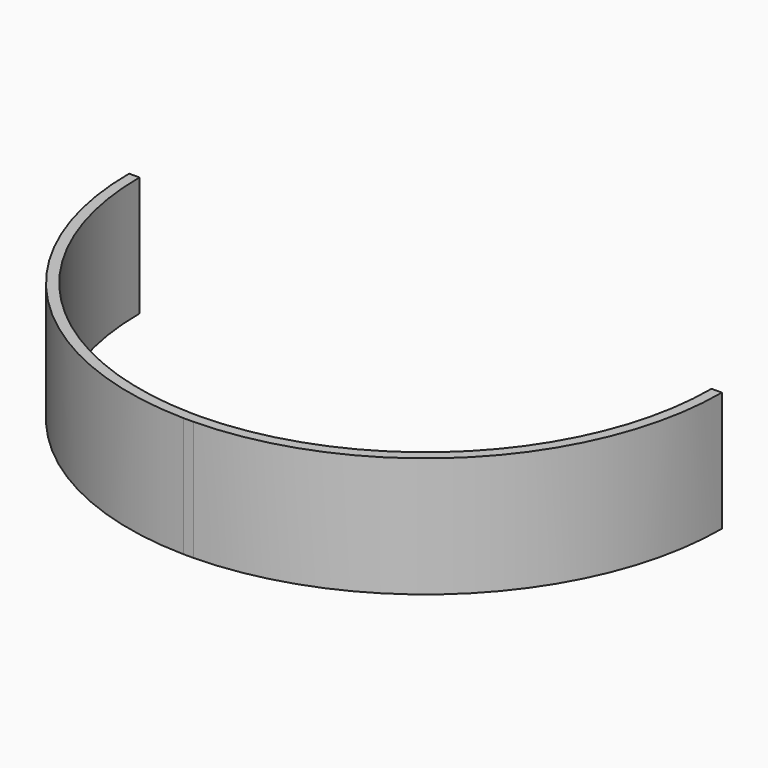
from build123d import *

# Parameters (mm, degrees)
F0_W     = 3.12686
F0_H     = 3.290719
F1_DEPTH = 38.1


with BuildPart() as f1:
    # F0 (on Top) → F1 (new body)
    with BuildSketch(Plane.XY):
        with BuildLine():
            Line((-90.932, 0), (-94.22225, 0))
            ThreePointArc((-94.22225, 0), (-67.175674, -66.070124), (-1.56343, -94.209278))
            Line((-1.56343, -94.209278), (-1.56343, -90.918559))
            ThreePointArc((-1.56343, -90.918559), (-64.849034, -63.743481), (-90.932, 0))
        make_face()
        with Locations((0, -92.563918)):
            Rectangle(F0_W, F0_H)
        with BuildLine():
            Line((1.56343, -90.918559), (1.56343, -94.209278))
            ThreePointArc((1.56343, -94.209278), (67.175674, -66.070124), (94.22225, 0))
            Line((94.22225, 0), (90.932, 0))
            ThreePointArc((90.932, 0), (64.849034, -63.743481), (1.56343, -90.918559))
        make_face()
    extrude(amount=F1_DEPTH)


solid = f1.part
